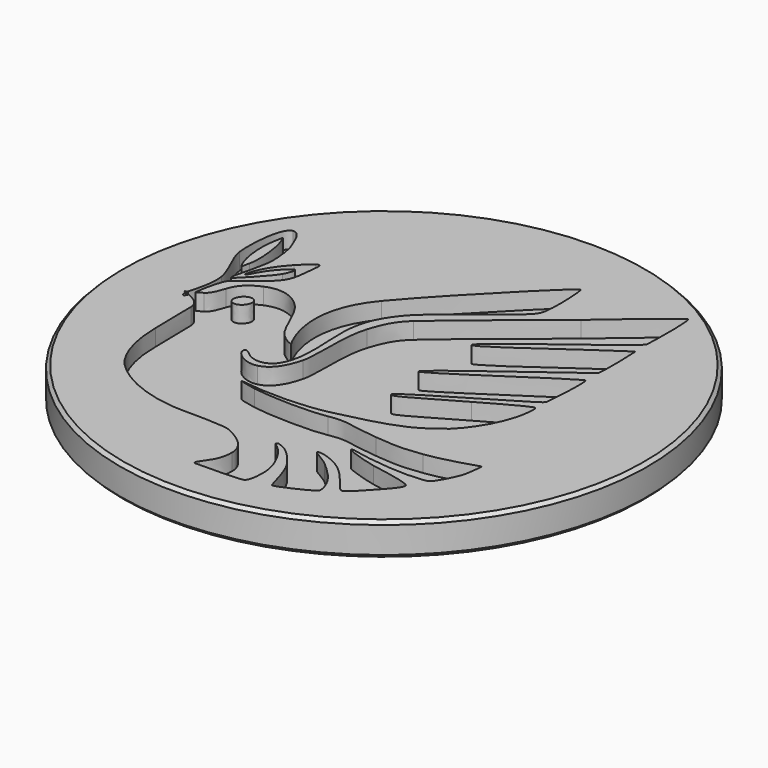
from build123d import *

# Parameters (mm, degrees)
POCKET_DEPTH    = 1.25
POCKET001_DEPTH = 1.25


with BuildPart() as part:
    # Sketch (on DatumPlane) → Revolution (revolve)
    with BuildSketch(Plane.YZ):
        Polygon((0, 0), (0, -2.5), (19.75, -2.5), (20, -2.25), (20, -0.25), (19.75, 0), align=None)
    revolve(axis=Axis((0, 0, 0), (0, 0, 1)))

    # Sketch005 → Pocket (cut)
    with BuildSketch(Plane.XY):
        with BuildLine():
            add(Edge.make_bspline(
                [(10.376443, 15.841234), (10.052298, 15.798487), (5.469975, 11.813201), (5.469975, 11.813201)],
                knots=[0, 0, 0, 0, 1, 1, 1, 1], degree=3))
            add(Edge.make_bspline(
                [(5.469975, 11.813201), (2.956527, 9.736497), (0.106308, 7.508138), (-2.16899, 5.511291)],
                knots=[0, 0, 0, 0, 1, 1, 1, 1], degree=3))
            add(Edge.make_bspline(
                [(-2.16899, 5.511291), (-3.024259, 4.761822), (-3.357168, 3.907772), (-3.654924, 2.974001)],
                knots=[0, 0, 0, 0, 1, 1, 1, 1], degree=3))
            add(Edge.make_bspline(
                [(-3.654924, 2.974001), (-4.209037, 1.235895), (-3.836652, -1.270577), (-4.132965, -2.477923)],
                knots=[0, 0, 0, 0, 1, 1, 1, 1], degree=3))
            add(Edge.make_bspline(
                [(-4.132965, -2.477923), (-4.390284, -3.526367), (-4.890834, -4.487774), (-5.790671, -4.713733)],
                knots=[0, 0, 0, 0, 1, 1, 1, 1], degree=3))
            add(Edge.make_bspline(
                [(-5.790671, -4.713733), (-6.681161, -4.9373), (-7.56183, -4.225985), (-7.653338, -3.890366)],
                knots=[0, 0, 0, 0, 1, 1, 1, 1], degree=3))
            add(Edge.make_bspline(
                [(-7.653338, -3.890366), (-7.744872, -3.554727), (-7.622077, -3.43232), (-7.164384, -3.828983)],
                knots=[0, 0, 0, 0, 1, 1, 1, 1], degree=3))
            add(Edge.make_bspline(
                [(-7.164384, -3.828983), (-6.706696, -4.22565), (-6.025855, -4.403064), (-5.42445, -4.042763)],
                knots=[0, 0, 0, 0, 1, 1, 1, 1], degree=3))
            add(Edge.make_bspline(
                [(-5.42445, -4.042763), (-4.823087, -3.682462), (-4.588824, -2.730226), (-4.507612, -1.979064)],
                knots=[0, 0, 0, 0, 1, 1, 1, 1], degree=3))
            add(Edge.make_bspline(
                [(-4.507612, -1.979064), (-4.32354, -0.276112), (-4.762005, 1.376039), (-4.38727, 3.158171)],
                knots=[0, 0, 0, 0, 1, 1, 1, 1], degree=3))
            add(Edge.make_bspline(
                [(-4.38727, 3.158171), (-4.133047, 4.367211), (-3.28342, 5.50066), (-2.588137, 6.178671)],
                knots=[0, 0, 0, 0, 1, 1, 1, 1], degree=3))
            add(Edge.make_bspline(
                [(-2.588137, 6.178671), (-1.896241, 6.853254), (0.264723, 8.554824), (1.776463, 9.779104)],
                knots=[0, 0, 0, 0, 1, 1, 1, 1], degree=3))
            add(Edge.make_bspline(
                [(1.776463, 9.779104), (2.234361, 10.149958), (2.807432, 10.521462), (3.040096, 11.015238)],
                knots=[0, 0, 0, 0, 1, 1, 1, 1], degree=3))
            add(Edge.make_bspline(
                [(3.040096, 11.015238), (3.355998, 11.68554), (3.1881, 14.792455), (3.027396, 14.857004)],
                knots=[0, 0, 0, 0, 1, 1, 1, 1], degree=3))
            add(Edge.make_bspline(
                [(3.027396, 14.857004), (2.866692, 14.921562), (-2.592371, 9.514944), (-5.257068, 6.345634)],
                knots=[0, 0, 0, 0, 1, 1, 1, 1], degree=3))
            add(Edge.make_bspline(
                [(-5.257068, 6.345634), (-8.450288, 2.5483), (-5.9894, -1.2913), (-5.9894, -1.2913)],
                knots=[0, 0, 0, 0, 1, 1, 1, 1], degree=3))
            add(Edge.make_bspline(
                [(-5.9894, -1.2913), (-5.9894, -1.2913), (-6.249361, -1.334503), (-6.939767, -0.730386)],
                knots=[0, 0, 0, 0, 1, 1, 1, 1], degree=3))
            add(Edge.make_bspline(
                [(-6.939767, -0.730386), (-7.630918, -0.126882), (-8.049171, 1.738494), (-8.873012, 2.653571)],
                knots=[0, 0, 0, 0, 1, 1, 1, 1], degree=3))
            add(Edge.make_bspline(
                [(-8.873012, 2.653571), (-9.69692, 3.569326), (-10.765413, 3.889027), (-11.863912, 3.415571)],
                knots=[0, 0, 0, 0, 1, 1, 1, 1], degree=3))
            add(Edge.make_bspline(
                [(-11.863912, 3.415571), (-12.962344, 2.942792), (-13.267076, 2.30339), (-13.419612, 1.830611)],
                knots=[0, 0, 0, 0, 1, 1, 1, 1], degree=3))
            add(Edge.make_bspline(
                [(-13.419612, 1.830611), (-13.572174, 1.357663), (-13.756632, 0.808041), (-14.107511, 0.594478)],
                knots=[0, 0, 0, 0, 1, 1, 1, 1], degree=3))
            add(Edge.make_bspline(
                [(-14.107511, 0.594478), (-14.458404, 0.380887), (-15.159478, 0.029324), (-15.159478, 0.029324)],
                knots=[0, 0, 0, 0, 1, 1, 1, 1], degree=3))
            add(Edge.make_bspline(
                [(-15.159478, 0.029324), (-15.159478, 0.029324), (-14.595015, -0.137726), (-14.350877, -0.290296)],
                knots=[0, 0, 0, 0, 1, 1, 1, 1], degree=3))
            add(Edge.make_bspline(
                [(-14.350877, -0.290296), (-14.106773, -0.442858), (-13.604117, -0.718086), (-13.588877, -1.297829)],
                knots=[0, 0, 0, 0, 1, 1, 1, 1], degree=3))
            add(Edge.make_bspline(
                [(-13.588877, -1.297829), (-13.573621, -1.877572), (-13.527494, -2.595193), (-13.527494, -4.731096)],
                knots=[0, 0, 0, 0, 1, 1, 1, 1], degree=3))
            add(Edge.make_bspline(
                [(-13.527494, -4.731096), (-13.527494, -6.866999), (-12.886242, -8.635381), (-12.001394, -9.550729)],
                knots=[0, 0, 0, 0, 1, 1, 1, 1], degree=3))
            add(Edge.make_bspline(
                [(-12.001394, -9.550729), (-11.116546, -10.466078), (-9.349431, -11.614835), (-6.584827, -11.915029)],
                knots=[0, 0, 0, 0, 1, 1, 1, 1], degree=3))
            add(Edge.make_bspline(
                [(-6.584827, -11.915029), (-5.586709, -12.023402), (-2.686977, -11.858548), (-1.978961, -12.190196)],
                knots=[0, 0, 0, 0, 1, 1, 1, 1], degree=3))
            add(Edge.make_bspline(
                [(-1.978961, -12.190196), (-1.262003, -12.526018), (-0.02526, -13.19861), (-0.02526, -14.342829)],
                knots=[0, 0, 0, 0, 1, 1, 1, 1], degree=3))
            add(Edge.make_bspline(
                [(-0.02526, -14.342829), (-0.02526, -15.487048), (-0.589723, -16.020516), (-0.833861, -16.417162)],
                knots=[0, 0, 0, 0, 1, 1, 1, 1], degree=3))
            add(Edge.make_bspline(
                [(-0.833861, -16.417162), (-1.077965, -16.813829), (-0.971691, -16.783342), (-0.742841, -16.783342)],
                knots=[0, 0, 0, 0, 1, 1, 1, 1], degree=3))
            add(Edge.make_bspline(
                [(-0.742841, -16.783342), (-0.585307, -16.783342), (2.420306, -16.77837), (2.715759, -16.633055)],
                knots=[0, 0, 0, 0, 1, 1, 1, 1], degree=3))
            add(Edge.make_bspline(
                [(2.715759, -16.633055), (3.011272, -16.487747), (3.059817, -15.499064), (3.035379, -15.028588)],
                knots=[0, 0, 0, 0, 1, 1, 1, 1], degree=3))
            add(Edge.make_bspline(
                [(3.035379, -15.028588), (2.98878, -14.131596), (2.511834, -13.174795), (2.034212, -12.569055)],
                knots=[0, 0, 0, 0, 1, 1, 1, 1], degree=3))
            add(Edge.make_bspline(
                [(2.034212, -12.569055), (1.556577, -11.963275), (1.241732, -11.939806), (1.275599, -11.824056)],
                knots=[0, 0, 0, 0, 1, 1, 1, 1], degree=3))
            add(Edge.make_bspline(
                [(1.275599, -11.824056), (1.30945, -11.708334), (1.358315, -11.699644), (1.695668, -11.836692)],
                knots=[0, 0, 0, 0, 1, 1, 1, 1], degree=3))
            add(Edge.make_bspline(
                [(1.695668, -11.836692), (2.068458, -11.988137), (2.464373, -12.20846), (3.291533, -13.280225)],
                knots=[0, 0, 0, 0, 1, 1, 1, 1], degree=3))
            add(Edge.make_bspline(
                [(3.291533, -13.280225), (4.054549, -14.268861), (4.275562, -16.10633), (4.463184, -16.151441)],
                knots=[0, 0, 0, 0, 1, 1, 1, 1], degree=3))
            add(Edge.make_bspline(
                [(4.463184, -16.151441), (4.650805, -16.196518), (6.726425, -15.261222), (7.028516, -14.946126)],
                knots=[0, 0, 0, 0, 1, 1, 1, 1], degree=3))
            add(Edge.make_bspline(
                [(7.028516, -14.946126), (7.111185, -14.829205), (7.027906, -14.312799), (6.680333, -13.714192)],
                knots=[0, 0, 0, 0, 1, 1, 1, 1], degree=3))
            add(Edge.make_bspline(
                [(6.680333, -13.714192), (6.332746, -13.115572), (5.694745, -12.523847), (5.115354, -12.017676)],
                knots=[0, 0, 0, 0, 1, 1, 1, 1], degree=3))
            add(Edge.make_bspline(
                [(5.115354, -12.017676), (4.729843, -11.680858), (3.770915, -11.238065), (3.857004, -11.137278)],
                knots=[0, 0, 0, 0, 1, 1, 1, 1], degree=3))
            add(Edge.make_bspline(
                [(3.857004, -11.137278), (3.943046, -11.036504), (4.750407, -11.132773), (5.715472, -11.73243)],
                knots=[0, 0, 0, 0, 1, 1, 1, 1], degree=3))
            add(Edge.make_bspline(
                [(5.715472, -11.73243), (6.843435, -12.433267), (7.786554, -14.071601), (8.046717, -14.114611)],
                knots=[0, 0, 0, 0, 1, 1, 1, 1], degree=3))
            add(Edge.make_bspline(
                [(8.046717, -14.114611), (8.306841, -14.157598), (9.05608, -13.305537), (9.357967, -12.983939)],
                knots=[0, 0, 0, 0, 1, 1, 1, 1], degree=3))
            add(Edge.make_bspline(
                [(9.357967, -12.983939), (9.905171, -12.401046), (10.752122, -11.535597), (10.636163, -11.226869)],
                knots=[0, 0, 0, 0, 1, 1, 1, 1], degree=3))
            add(Edge.make_bspline(
                [(10.636163, -11.226869), (10.520176, -10.918113), (8.182455, -10.555116), (7.546507, -10.430663)],
                knots=[0, 0, 0, 0, 1, 1, 1, 1], degree=3))
            add(Edge.make_bspline(
                [(7.546507, -10.430663), (6.788638, -10.282388), (5.198937, -9.774205), (5.23592, -9.637574)],
                knots=[0, 0, 0, 0, 1, 1, 1, 1], degree=3))
            add(Edge.make_bspline(
                [(5.23592, -9.637574), (5.272872, -9.500915), (5.700611, -9.689241), (6.731268, -9.849173)],
                knots=[0, 0, 0, 0, 1, 1, 1, 1], degree=3))
            add(Edge.make_bspline(
                [(6.731268, -9.849173), (9.429358, -10.267866), (11.145721, -10.059376), (11.374998, -9.93392)],
                knots=[0, 0, 0, 0, 1, 1, 1, 1], degree=3))
            add(Edge.make_bspline(
                [(11.374998, -9.93392), (11.604309, -9.808465), (12.192133, -8.716278), (12.393301, -8.132552)],
                knots=[0, 0, 0, 0, 1, 1, 1, 1], degree=3))
            add(Edge.make_bspline(
                [(12.393301, -8.132552), (12.594523, -7.548827), (12.636721, -6.515419), (12.636721, -6.515419)],
                knots=[0, 0, 0, 0, 1, 1, 1, 1], degree=3))
            add(Edge.make_bspline(
                [(12.636721, -6.515419), (12.636721, -6.515419), (10.334465, -7.293743), (8.915587, -7.461586)],
                knots=[0, 0, 0, 0, 1, 1, 1, 1], degree=3))
            add(Edge.make_bspline(
                [(8.915587, -7.461586), (7.496777, -7.629402), (7.451396, -7.674296), (5.37652, -7.491219)],
                knots=[0, 0, 0, 0, 1, 1, 1, 1], degree=3))
            add(Edge.make_bspline(
                [(5.37652, -7.491219), (3.301645, -7.308143), (2.996032, -6.911808), (1.500887, -7.186419)],
                knots=[0, 0, 0, 0, 1, 1, 1, 1], degree=3))
            add(Edge.make_bspline(
                [(1.500887, -7.186419), (0.005741, -7.461031), (-3.107689, -7.308109), (-4.114613, -7.125036)],
                knots=[0, 0, 0, 0, 1, 1, 1, 1], degree=3))
            add(Edge.make_bspline(
                [(-4.114613, -7.125036), (-5.121537, -6.94196), (-5.333813, -6.820236), (-5.333813, -6.820236)],
                knots=[0, 0, 0, 0, 1, 1, 1, 1], degree=3))
            add(Edge.make_bspline(
                [(-5.333813, -6.820236), (-5.333813, -6.820236), (-1.764673, -7.400142), (1.378154, -6.667836)],
                knots=[0, 0, 0, 0, 1, 1, 1, 1], degree=3))
            add(Edge.make_bspline(
                [(1.378154, -6.667836), (3.343775, -6.209823), (4.808373, -5.859236), (6.017887, -5.302603)],
                knots=[0, 0, 0, 0, 1, 1, 1, 1], degree=3))
            add(Edge.make_bspline(
                [(6.017887, -5.302603), (6.047521, -5.304723)],
                knots=[0, 0, 0.438618, 0.438618], degree=1))
            add(Edge.make_bspline(
                [(6.047521, -5.304723), (6.134301, -5.247573)],
                knots=[0, 0, 1.534075, 1.534075], degree=1))
            add(Edge.make_bspline(
                [(6.134301, -5.247573), (6.223742, -5.204834), (6.312128, -5.16164), (6.398881, -5.11634)],
                knots=[0, 0, 0, 0, 1, 1, 1, 1], degree=3))
            add(Edge.make_bspline(
                [(6.398881, -5.11634), (7.197457, -4.635433)],
                knots=[0, 0, 13.76278, 13.76278], degree=1))
            add(Edge.make_bspline(
                [(7.197457, -4.635433), (7.420807, -4.480236), (7.636551, -4.311349), (7.847277, -4.12532)],
                knots=[0, 0, 0, 0, 1, 1, 1, 1], degree=3))
            add(Edge.make_bspline(
                [(7.847277, -4.12532), (8.099163, -3.96022)],
                knots=[0, 0, 4.446446, 4.446446], degree=1))
            add(Edge.make_bspline(
                [(8.099163, -3.96022), (9.270408, -2.846345), (10.35956, -0.870157), (10.450797, 0.743047)],
                knots=[0, 0, 0, 0, 1, 1, 1, 1], degree=3))
            add(Edge.make_bspline(
                [(10.450797, 0.743047), (10.450797, 0.743047), (10.530357, 1.182969), (10.402114, 1.333601)],
                knots=[0, 0, 0, 0, 1, 1, 1, 1], degree=3))
            add(Edge.make_bspline(
                [(10.402114, 1.333601), (10.273867, 1.484226), (6.992147, -0.425366), (6.992147, -0.425366)],
                knots=[0, 0, 0, 0, 1, 1, 1, 1], degree=3))
            add(Edge.make_bspline(
                [(6.992147, -0.425366), (5.080847, -1.449697), (2.849305, -2.973697), (2.66358, -2.664766)],
                knots=[0, 0, 0, 0, 1, 1, 1, 1], degree=3))
            add(Edge.make_bspline(
                [(2.66358, -2.664766), (2.477815, -2.355861), (10.330994, 1.935208), (10.438012, 2.298801)],
                knots=[0, 0, 0, 0, 1, 1, 1, 1], degree=3))
            add(Edge.make_bspline(
                [(10.438012, 2.298801), (10.528971, 2.606838), (10.699273, 5.646182), (10.557372, 5.933371)],
                knots=[0, 0, 0, 0, 1, 1, 1, 1], degree=3))
            add(Edge.make_bspline(
                [(10.557372, 5.933371), (10.444183, 6.162459), (2.307452, 0.423468), (2.102897, 0.666834)],
                knots=[0, 0, 0, 0, 1, 1, 1, 1], degree=3))
            add(Edge.make_bspline(
                [(2.102897, 0.666834), (1.898167, 0.910186), (10.455095, 6.971046), (10.52486, 7.173433)],
                knots=[0, 0, 0, 0, 1, 1, 1, 1], degree=3))
            add(Edge.make_bspline(
                [(10.52486, 7.173433), (10.630985, 7.480557), (10.587502, 10.370176), (10.528145, 10.614219)],
                knots=[0, 0, 0, 0, 1, 1, 1, 1], degree=3))
            add(Edge.make_bspline(
                [(10.528145, 10.614219), (10.468784, 10.858269), (2.631116, 4.895358), (2.434689, 5.272633)],
                knots=[0, 0, 0, 0, 1, 1, 1, 1], degree=3))
            add(Edge.make_bspline(
                [(2.434689, 5.272633), (2.238438, 5.649935), (10.408934, 11.334766), (10.473281, 11.805919)],
                knots=[0, 0, 0, 0, 1, 1, 1, 1], degree=3))
            add(Edge.make_bspline(
                [(10.473281, 11.805919), (10.537253, 12.277018), (10.578918, 15.753282), (10.389231, 15.839033)],
                knots=[0, 0, 0, 0, 1, 1, 1, 1], degree=3))
            add(Edge.make_bspline(
                [(10.389231, 15.839033), (10.386264, 15.840373), (10.381676, 15.839711), (10.376531, 15.839033)],
                knots=[0, 0, 0, 0, 1, 1, 1, 1], degree=3))
            add(Edge.make_bspline(
                [(10.376531, 15.839033), (10.376443, 15.841234)],
                knots=[0, 0, 0.032526, 0.032526], degree=1))
        make_face()
        with BuildLine():
            add(Edge.make_bspline(
                [(-11.526485, 1.843463), (-11.41652, 1.842549), (-11.31467, 1.809011), (-11.234385, 1.73763)],
                knots=[0, 0, 0, 0, 1, 1, 1, 1], degree=3))
            add(Edge.make_bspline(
                [(-11.234385, 1.73763), (-11.020287, 1.547286), (-11.047319, 1.168033), (-11.293652, 0.890963)],
                knots=[0, 0, 0, 0, 1, 1, 1, 1], degree=3))
            add(Edge.make_bspline(
                [(-11.293652, 0.890963), (-11.539985, 0.613893), (-11.911407, 0.543979), (-12.125485, 0.73433)],
                knots=[0, 0, 0, 0, 1, 1, 1, 1], degree=3))
            add(Edge.make_bspline(
                [(-12.125485, 0.73433), (-12.339583, 0.924674), (-12.314664, 1.301814), (-12.068335, 1.578897)],
                knots=[0, 0, 0, 0, 1, 1, 1, 1], degree=3))
            add(Edge.make_bspline(
                [(-12.068335, 1.578897), (-11.914377, 1.752064), (-11.709741, 1.845008), (-11.526468, 1.843477)],
                knots=[0, 0, 0, 0, 1, 1, 1, 1], degree=3))
            add(Edge.make_bspline(
                [(-11.526468, 1.843477), (-11.526485, 1.843463)],
                knots=[0, 0, 0.00032, 0.00032], degree=1))
        make_face(mode=Mode.SUBTRACT)
    extrude(amount=-POCKET_DEPTH, mode=Mode.SUBTRACT)

    # Sketch006 → Pocket001 (cut)
    with BuildSketch(Plane.XY):
        with BuildLine():
            add(Edge.make_bspline(
                [(-14.955485, 10.079701), (-15.831481, 9.895954), (-15.85302, 6.686397), (-15.753384, 6.035683)],
                knots=[0, 0, 0, 0, 1, 1, 1, 1], degree=3))
            add(Edge.make_bspline(
                [(-15.753384, 6.035683), (-15.593452, 4.991438), (-14.80295, 3.969139), (-14.608352, 2.883035)],
                knots=[0, 0, 0, 0, 1, 1, 1, 1], degree=3))
            add(Edge.make_bspline(
                [(-14.608352, 2.883035), (-14.417019, 1.815286), (-14.827334, 0.751805), (-14.997758, -0.060588)],
                knots=[0, 0, 0, 0, 1, 1, 1, 1], degree=3))
            add(Edge.make_bspline(
                [(-14.997758, -0.060588), (-15.040758, -0.426138), (-14.814268, -0.567274), (-14.674995, -0.149468)],
                knots=[0, 0, 0, 0, 1, 1, 1, 1], degree=3))
            add(Edge.make_bspline(
                [(-14.674995, -0.149468), (-14.535728, 0.268338), (-14.49391, 0.8412), (-14.447485, 1.096554)],
                knots=[0, 0, 0, 0, 1, 1, 1, 1], degree=3))
            add(Edge.make_bspline(
                [(-14.447485, 1.096554), (-14.401062, 1.351882), (-14.191541, 2.294893), (-13.981819, 2.605721)],
                knots=[0, 0, 0, 0, 1, 1, 1, 1], degree=3))
            add(Edge.make_bspline(
                [(-13.981819, 2.605721), (-13.797537, 2.878876), (-13.152898, 3.272183), (-12.821885, 3.556087)],
                knots=[0, 0, 0, 0, 1, 1, 1, 1], degree=3))
            add(Edge.make_bspline(
                [(-12.821885, 3.556087), (-12.494164, 3.837181), (-11.66649, 4.401467), (-11.341302, 5.012693)],
                knots=[0, 0, 0, 0, 1, 1, 1, 1], degree=3))
            add(Edge.make_bspline(
                [(-11.341302, 5.012693), (-11.000265, 5.653816), (-11.0351, 6.620546), (-10.942258, 7.154421)],
                knots=[0, 0, 0, 0, 1, 1, 1, 1], degree=3))
            add(Edge.make_bspline(
                [(-10.942258, 7.154421), (-10.849409, 7.688281), (-11.057134, 7.710674), (-11.242825, 7.571401)],
                knots=[0, 0, 0, 0, 1, 1, 1, 1], degree=3))
            add(Edge.make_bspline(
                [(-11.242825, 7.571401), (-11.428516, 7.432134), (-11.754232, 7.131886), (-12.172059, 6.690867)],
                knots=[0, 0, 0, 0, 1, 1, 1, 1], degree=3))
            add(Edge.make_bspline(
                [(-12.172059, 6.690867), (-12.589865, 6.249849), (-13.309572, 5.390387), (-13.588092, 4.438734)],
                knots=[0, 0, 0, 0, 1, 1, 1, 1], degree=3))
            add(Edge.make_bspline(
                [(-13.588092, 4.438734), (-13.866631, 3.487081), (-13.540591, 4.067928), (-13.238845, 4.625001)],
                knots=[0, 0, 0, 0, 1, 1, 1, 1], degree=3))
            add(Edge.make_bspline(
                [(-13.238845, 4.625001), (-12.937093, 5.182073), (-12.566206, 5.621358), (-12.032379, 6.108767)],
                knots=[0, 0, 0, 0, 1, 1, 1, 1], degree=3))
            add(Edge.make_bspline(
                [(-12.032379, 6.108767), (-11.498518, 6.59621), (-11.730485, 5.878656), (-11.985812, 5.3912)],
                knots=[0, 0, 0, 0, 1, 1, 1, 1], degree=3))
            add(Edge.make_bspline(
                [(-11.985812, 5.3912), (-12.24114, 4.903757), (-13.495927, 3.603785), (-13.797679, 3.302033)],
                knots=[0, 0, 0, 0, 1, 1, 1, 1], degree=3))
            add(Edge.make_bspline(
                [(-13.797679, 3.302033), (-14.099431, 3.000281), (-14.167733, 3.068732), (-14.051679, 3.6026)],
                knots=[0, 0, 0, 0, 1, 1, 1, 1], degree=3))
            add(Edge.make_bspline(
                [(-14.051679, 3.6026), (-13.935503, 4.136338), (-13.646037, 5.074445), (-13.541444, 5.900792)],
                knots=[0, 0, 0, 0, 1, 1, 1, 1], degree=3))
            add(Edge.make_bspline(
                [(-13.541444, 5.900792), (-13.440819, 6.695981), (-13.632477, 7.99829), (-13.797557, 8.430293)],
                knots=[0, 0, 0, 0, 1, 1, 1, 1], degree=3))
            add(Edge.make_bspline(
                [(-13.797557, 8.430293), (-13.982035, 8.913029), (-14.40992, 10.193595), (-14.955391, 10.079193)],
                knots=[0, 0, 0, 0, 1, 1, 1, 1], degree=3))
            add(Edge.make_bspline(
                [(-14.955391, 10.079193), (-14.955485, 10.079701)],
                knots=[0, 0, 0.00763, 0.00763], degree=1))
        make_face()
        with BuildLine():
            add(Edge.make_bspline(
                [(-14.858119, 8.991769), (-14.407177, 8.263093), (-14.145361, 6.067856), (-14.362521, 5.22925)],
                knots=[0, 0, 0, 0, 1, 1, 1, 1], degree=3))
            add(Edge.make_bspline(
                [(-14.362521, 5.22925), (-14.487773, 4.815406), (-14.417204, 4.249351), (-14.753593, 5.147685)],
                knots=[0, 0, 0, 0, 1, 1, 1, 1], degree=3))
            add(Edge.make_bspline(
                [(-14.753593, 5.147685), (-15.123058, 6.134357), (-15.184763, 7.635327), (-14.934319, 8.663655)],
                knots=[0, 0, 0, 0, 1, 1, 1, 1], degree=3))
            add(Edge.make_bspline(
                [(-14.934319, 8.663655), (-14.911107, 8.872558), (-14.892936, 8.99464), (-14.858119, 8.991741)],
                knots=[0, 0, 0, 0, 1, 1, 1, 1], degree=3))
            add(Edge.make_bspline(
                [(-14.858119, 8.991741), (-14.858119, 8.991769)],
                knots=[0, 0, 0.0004, 0.0004], degree=1))
        make_face(mode=Mode.SUBTRACT)
    extrude(amount=-POCKET001_DEPTH, mode=Mode.SUBTRACT)


solid = part.part
